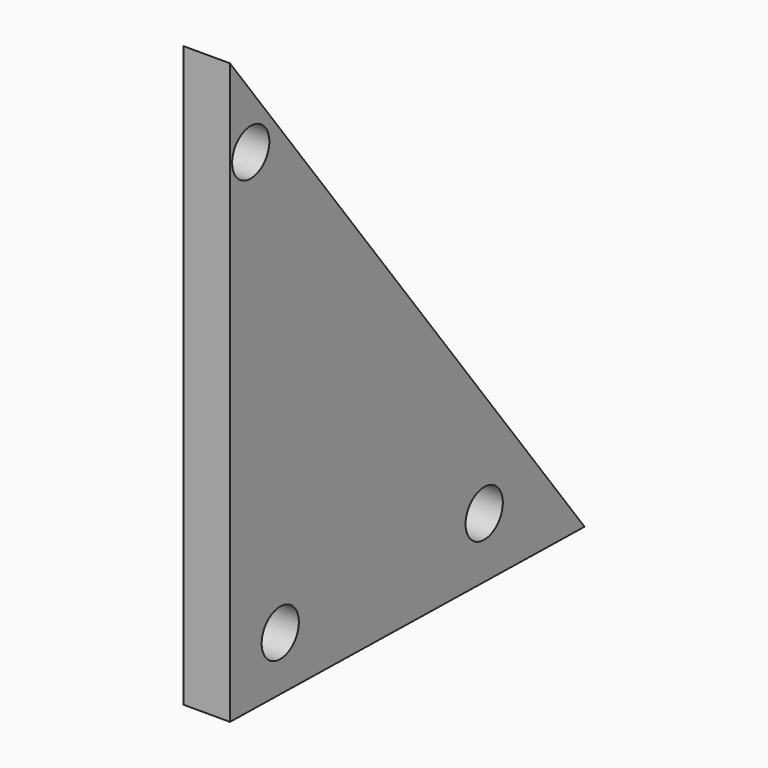
from build123d import *

# Parameters (mm, degrees)
F1_DEPTH = 5
F3_D     = 5
F5_D     = 5
F7_D     = 5


with BuildPart() as f1:
    # F0 (on Right) → F1 (new body)
    with BuildSketch(Plane.YZ):
        Polygon((24.703234, -23.224443), (-22.944346, 40.005997), (-22.944346, -22.325426), align=None)
    extrude(amount=F1_DEPTH)

    # F3 (through all)
    with Locations(Plane.YZ.offset(5)):
        with Locations((11.219002, -16.476458)):
            Hole(F3_D / 2)

    # F5 (through all)
    with Locations(Plane.YZ.offset(5)):
        with Locations((-16.186237, -16.636005)):
            Hole(F5_D / 2)

    # F7 (through all)
    with Locations(Plane.YZ.offset(5)):
        with Locations((-20.151891, 30.455533)):
            Hole(F7_D / 2)


solid = f1.part
